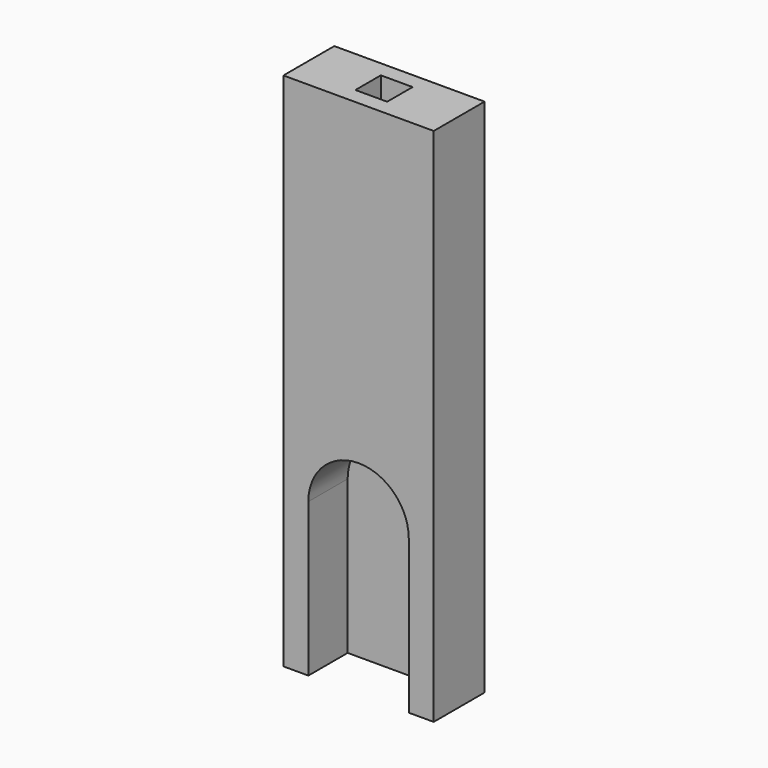
from build123d import *

# Parameters (mm, degrees)
F0_W     = 1320.8
F0_H     = 558.8
F0_W_2   = 279.4
F0_H_2   = 279.4
F1_DEPTH = 4572
F3_DEPTH = 431.8


with BuildPart() as f1:
    # F0 (on Top) → F1 (new body)
    with BuildSketch(Plane.XY):
        with Locations((281.830298, 4.898325)):
            Rectangle(F0_W, F0_H)
        with Locations((281.830298, 4.898325)):
            Rectangle(F0_W_2, F0_H_2, mode=Mode.SUBTRACT)
    extrude(amount=F1_DEPTH)

    # F2 (on face) → F3 (cut)
    with BuildSketch(Plane.XZ.offset(274.501675)):
        with BuildLine():
            Line((-159.494702, 0), (723.155298, 0))
            Line((723.155298, 0), (723.155298, 1346.2))
            ThreePointArc((723.155298, 1346.2), (281.830298, 1787.525), (-159.494702, 1346.2))
            Line((-159.494702, 1346.2), (-159.494702, 0))
        make_face()
    extrude(amount=-F3_DEPTH, mode=Mode.SUBTRACT)


solid = f1.part
